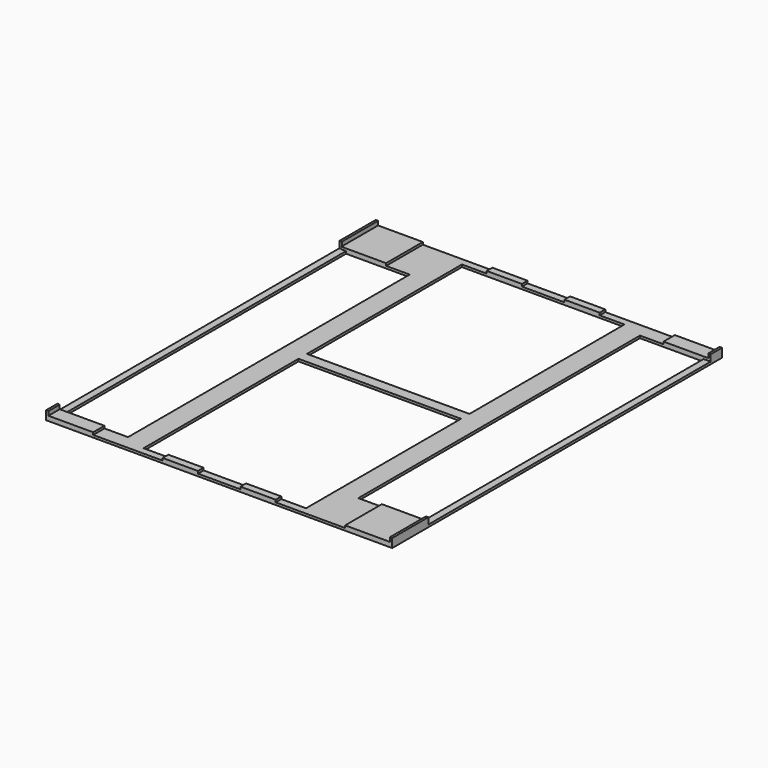
from build123d import *

# Parameters (mm, degrees)
F0_W      = 156
F0_H      = 175
F1_DEPTH  = 1
F2_W      = 4.5
F2_H      = 175
F2_W_2    = 27
F2_H_2    = 149.5
F2_W_3    = 69
F2_H_3    = 82.25
F3_DEPTH  = 1.001
F4_W      = 15
F4_H      = 3
F5_DEPTH  = 1
F6_W      = 1
F6_H      = 19.1769432276
F6_H_2    = 19.2576229572
F7_DEPTH  = 2.75
F9_DEPTH  = 1
F10_W     = 1
F10_H     = 6
F11_DEPTH = 2.75
F12_W     = 1
F12_H     = 6
F13_DEPTH = 2.75


with BuildPart() as f1:
    # F0 (on Top) → F1 (new body)
    with BuildSketch(Plane.XY):
        with Locations((78, 87.5)):
            Rectangle(F0_W, F0_H)
    extrude(amount=F1_DEPTH)

    # F2 (on face) → F3 (cut, through all)
    with BuildSketch(Plane.XY.offset(1)):
        with Locations((2.25, 87.5)):
            Rectangle(F2_W, F2_H)
        with Locations((21, 80.75)):
            Rectangle(F2_W_2, F2_H_2)
        with Locations((78, 130.875)):
            Rectangle(F2_W_3, F2_H_3)
        with Locations((78, 44.125)):
            Rectangle(F2_W_3, F2_H_3)
        with Locations((135, 94.25)):
            Rectangle(F2_W_2, F2_H_2)
        with Locations((153.75, 87.5)):
            Rectangle(F2_W, F2_H)
    extrude(amount=-F3_DEPTH, mode=Mode.SUBTRACT)

    # F4 (on face) → F5 (join)
    with BuildSketch(Plane.XY.offset(1)):
        Polygon((24.5, 155.5), (24.5, 175), (5.5, 175), (5.5, 155.5), (7.5, 155.5), align=None)
        with Locations((61.5, 173.5)):
            Rectangle(F4_W, F4_H)
        with Locations((94.5, 173.5)):
            Rectangle(F4_W, F4_H)
        Polygon((131.5, 0), (150.5, 0), (150.5, 19.5), (148.5, 19.5), (131.5, 19.5), align=None)
        with Locations((94.5, 1.5)):
            Rectangle(F4_W, F4_H)
        with Locations((61.5, 1.5)):
            Rectangle(F4_W, F4_H)
    extrude(amount=F5_DEPTH)

    # F6 (on face) → F7 (join)
    with BuildSketch(Plane.XY.offset(1)):
        with Locations((151, 9.5884716138)):
            Rectangle(F6_W, F6_H)
        with Locations((5, 165.3711885214)):
            Rectangle(F6_W, F6_H_2)
    extrude(amount=F7_DEPTH)

    # F8 (on face) → F9 (join)
    with BuildSketch(Plane.XY.offset(1)):
        Polygon((5.5, 0), (24.5, 0), (24.5, 6), (7.5, 6), (5.5, 6), align=None)
        Polygon((131.5, 175), (131.5, 169), (148.5, 169), (150.5, 169), (150.5, 175), align=None)
    extrude(amount=F9_DEPTH)

    # F10 (on face) → F11 (join)
    with BuildSketch(Plane.XY.offset(1)):
        with Locations((151, 172)):
            Rectangle(F10_W, F10_H)
    extrude(amount=F11_DEPTH)

    # F12 (on face) → F13 (join)
    with BuildSketch(Plane.XY.offset(1)):
        with Locations((5, 3)):
            Rectangle(F12_W, F12_H)
    extrude(amount=F13_DEPTH)


solid = f1.part
